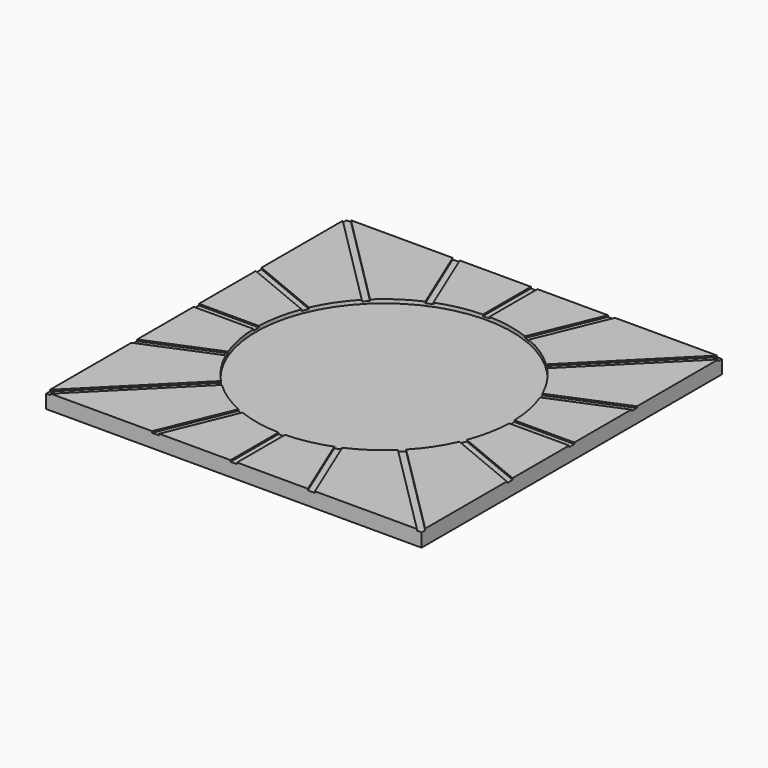
from build123d import *

# Parameters (mm, degrees)
F0_W     = 127
F0_H     = 127
F1_DEPTH = 5.08
F2_W     = 2.19577
F2_H     = 52.046703
F3_DEPTH = 0.508
F4_R     = 43.226331
F5_DEPTH = 1.27


with BuildPart() as f1:
    # F0 (on Top) → F1 (new body)
    with BuildSketch(Plane.XY):
        Rectangle(F0_W, F0_H)
    extrude(amount=F1_DEPTH)

    # F2 (on face) → F3 (cut)
    with BuildSketch(Plane.XY.offset(5.08)):
        Polygon((38.169024, -1.120174), (90.2161, -1.120174), (90.2161, 1.120174), (38.13681, 1.120174), align=None)
        Polygon((-1.096878, -38.1697), (-1.097885, -90.216374), (1.097885, -90.216374), (1.097885, -38.169671), align=None)
        with Locations((0, 64.193022)):
            Rectangle(F2_W, F2_H)
        Polygon((-38.168937, 1.123112), (-90.2161, 1.120174), (-90.2161, -1.120174), (-38.169024, -1.120174), align=None)
        Polygon((27.771347, 26.192397), (64.574188, 62.995238), (62.990023, 64.579402), (26.164404, 27.753783), align=None)
        Polygon((26.204134, -27.77076), (63.005977, -64.574029), (64.558622, -63.021384), (27.756045, -26.218808), align=None)
        Polygon((-63.026599, 64.563836), (-64.579243, 63.011192), (-27.776666, 26.208615), (-26.224022, 27.761259), align=None)
        Polygon((-27.793985, -26.20045), (-64.594809, -63.00543), (-63.010644, -64.589595), (-26.207804, -27.786754), align=None)
        Polygon((35.612549, 13.623586), (83.697778, 33.54114), (82.840434, 35.610951), (34.725444, 15.681069), align=None)
        Polygon((13.513826, -35.632124), (33.430295, -83.717366), (35.458923, -82.877081), (15.541512, -34.792197), align=None)
        Polygon((-33.589701, 83.821042), (-35.618328, 82.980757), (-15.700917, 34.895874), (-13.67229, 35.736159), align=None)
        Polygon((-35.772999, -13.517161), (-83.857183, -33.437463), (-82.999839, -35.507274), (-34.914611, -15.58972), align=None)
        Polygon((34.73032, -15.532565), (82.815549, -35.450119), (83.672893, -33.380308), (35.557903, -13.450427), align=None)
        Polygon((-15.724882, -34.735455), (-35.643213, -82.819926), (-33.614586, -83.660211), (-13.697175, -35.575328), align=None)
        Polygon((35.434038, 83.037912), (33.405411, 83.878197), (13.488, 35.793313), (15.516627, 34.953028), align=None)
        Polygon((-34.938291, 15.753233), (-83.024724, 35.668105), (-83.882068, 33.598294), (-35.796839, 13.68074), align=None)
    extrude(amount=-F3_DEPTH, mode=Mode.SUBTRACT)

    # F4 (on face) → F5 (cut)
    with BuildSketch(Plane.XY.offset(5.08)):
        Circle(F4_R)
    extrude(amount=-F5_DEPTH, mode=Mode.SUBTRACT)


solid = f1.part
